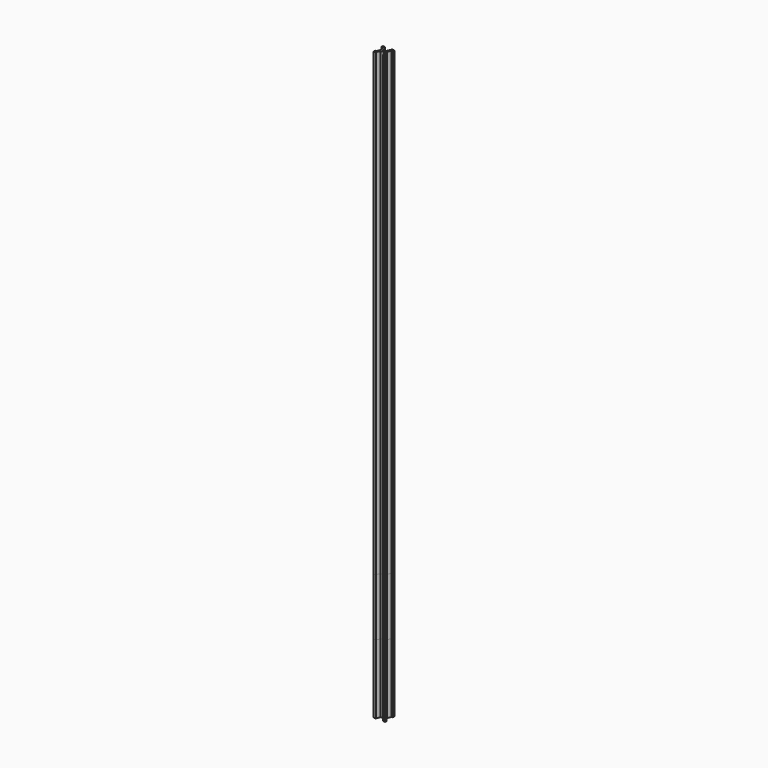
from build123d import *

# Parameters (mm, degrees)
F1_DEPTH = 50
F2_DEPTH = 1020
F3_DEPTH = 220
F4_DEPTH = 120


with BuildPart() as f1:
    # F0 (on Top) → F1 (new body)
    with BuildSketch(Plane.XY):
        Polygon((-6, 10), (-10, 10), (-10, 7), (-7.8, 7), (-5, 0), (-7.8, -7), (-10, -7), (-10, -10), (-6.276923, -10), (-3.476923, -3), (3.476923, -3), (6.276923, -10), (10, -10), (10, -7), (7.8, -7), (5, 0), (7.8, 7), (10, 7), (10, 10), (6, 10), (2, 0), (-2, 0), align=None)
    extrude(amount=F1_DEPTH)


with BuildPart() as f2:
    # F0 (on Top) → F2 (new body)
    with BuildSketch(Plane.XY):
        Polygon((-6, 10), (-10, 10), (-10, 7), (-7.8, 7), (-5, 0), (-7.8, -7), (-10, -7), (-10, -10), (-6.276923, -10), (-3.476923, -3), (3.476923, -3), (6.276923, -10), (10, -10), (10, -7), (7.8, -7), (5, 0), (7.8, 7), (10, 7), (10, 10), (6, 10), (2, 0), (-2, 0), align=None)
    extrude(amount=F2_DEPTH)


with BuildPart() as f3:
    # F0 (on Top) → F3 (new body)
    with BuildSketch(Plane.XY):
        Polygon((-6, 10), (-10, 10), (-10, 7), (-7.8, 7), (-5, 0), (-7.8, -7), (-10, -7), (-10, -10), (-6.276923, -10), (-3.476923, -3), (3.476923, -3), (6.276923, -10), (10, -10), (10, -7), (7.8, -7), (5, 0), (7.8, 7), (10, 7), (10, 10), (6, 10), (2, 0), (-2, 0), align=None)
    extrude(amount=F3_DEPTH)


with BuildPart() as f4:
    # F0 (on Top) → F4 (new body)
    with BuildSketch(Plane.XY):
        Polygon((-6, 10), (-10, 10), (-10, 7), (-7.8, 7), (-5, 0), (-7.8, -7), (-10, -7), (-10, -10), (-6.276923, -10), (-3.476923, -3), (3.476923, -3), (6.276923, -10), (10, -10), (10, -7), (7.8, -7), (5, 0), (7.8, 7), (10, 7), (10, 10), (6, 10), (2, 0), (-2, 0), align=None)
    extrude(amount=F4_DEPTH)


solid = Compound([f1.part, f2.part, f3.part, f4.part])
